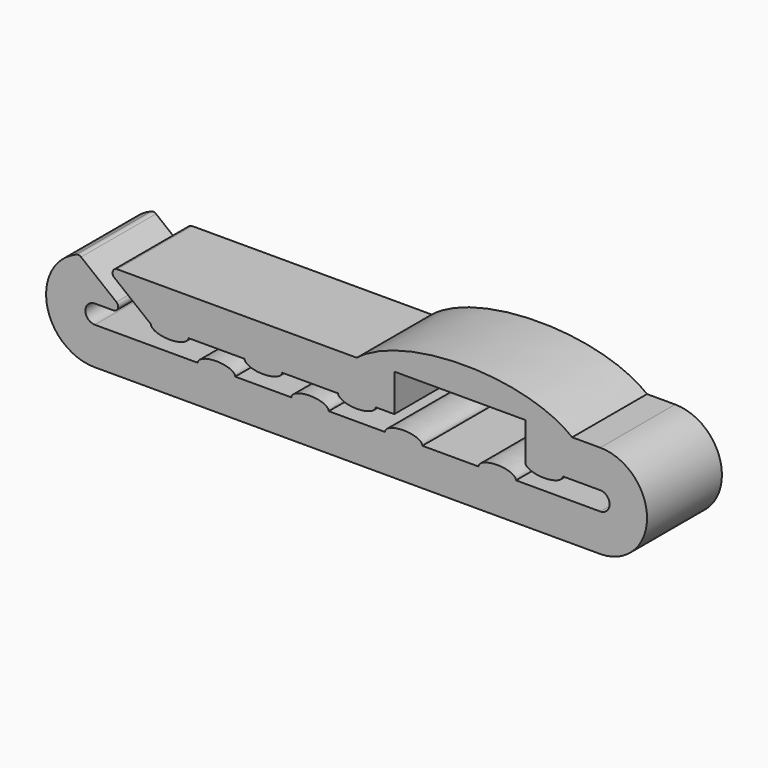
from build123d import *

# Parameters (mm, degrees)
PAD_DEPTH = 5


with BuildPart() as part:
    # Sketch → Pad (new body)
    with BuildSketch(Plane.XZ.offset(-65.300003)):
        with BuildLine():
            Line((62.415147, 3.02512), (62.415147, 5.02512))
            Line((62.415147, 5.02512), (55.415147, 5.02512))
            Line((55.415147, 5.02512), (55.415147, 3.02512))
            Line((55.415147, 3.02512), (54.415147, 3.02512))
            add(Edge.make_bspline(
                [(52.415147, 3.02512), (52.415147, 2.62512), (53.415147, 2.62512), (54.415147, 2.62512), (54.415147, 3.02512)],
                knots=[0, 0, 0, 1.570796, 1.570796, 3.141593, 3.141593, 3.141593], degree=2, weights=[1, 0.707107, 1, 0.707107, 1]))
            Line((52.415147, 3.02512), (49.415147, 3.02512))
            add(Edge.make_bspline(
                [(47.415156, 3.02512), (47.417952, 2.625118), (48.417947, 2.625118), (49.417943, 2.625118), (49.415147, 3.02512)],
                knots=[0.003328, 0.003328, 0.003328, 1.574124, 1.574124, 3.144921, 3.144921, 3.144921], degree=2, weights=[1, 0.707107, 1, 0.707107, 1]))
            Line((47.415156, 3.02512), (44.415156, 3.02512))
            add(Edge.make_bspline(
                [(42.415165, 3.02512), (42.417868, 2.625118), (43.417863, 2.625118), (44.417859, 2.625118), (44.415156, 3.02512)],
                knots=[0.003218, 0.003218, 0.003218, 1.574014, 1.574014, 3.14481, 3.14481, 3.14481], degree=2, weights=[1, 0.707107, 1, 0.707107, 1]))
            Line((42.415165, 3.02512), (40.460414, 4.579441))
            ThreePointArc((40.460414, 4.579441), (40.379979, 4.857522), (40.616008, 5.02512))
            Line((40.616008, 5.02512), (53.415147, 5.02512))
            add(Edge.make_bspline(
                [(64.915147, 5.02512), (59.165147, 9.713985), (53.415147, 5.02512)],
                knots=[0.501593, 0.501593, 0.501593, 2.64, 2.64, 2.64], degree=2, weights=[1, 0.480823, 1]))
            Line((64.915147, 5.02512), (66.415147, 5.02512))
            ThreePointArc((66.415147, 5.02512), (68.915147, 2.52512), (66.415147, 0.02512))
            Line((66.415147, 0.02512), (39.399212, 0.02512))
            ThreePointArc((39.399212, 0.02512), (36.86205, 2.118516), (38.435477, 5.007084))
            ThreePointArc((38.435477, 5.007084), (38.564785, 5.022504), (38.684305, 4.970799))
            Line((38.684305, 4.970799), (40.570741, 3.470799))
            ThreePointArc((40.570741, 3.470799), (40.651176, 3.192718), (40.415147, 3.02512))
            Line((40.415147, 3.02512), (39.415147, 3.02512))
            ThreePointArc((39.415147, 3.02512), (38.915147, 2.52512), (39.415147, 2.02512))
            Line((39.415147, 2.02512), (41.784904, 2.02512))
            Line((41.784904, 2.02512), (44.915147, 2.02512))
            add(Edge.make_bspline(
                [(46.915147, 2.02512), (46.915147, 2.42512), (45.915147, 2.42512), (44.915147, 2.42512), (44.915147, 2.02512)],
                knots=[0, 0, 0, 1.570796, 1.570796, 3.141593, 3.141593, 3.141593], degree=2, weights=[1, 0.707107, 1, 0.707107, 1]))
            Line((46.915147, 2.02512), (49.915147, 2.02512))
            add(Edge.make_bspline(
                [(51.915147, 2.02512), (51.915147, 2.42512), (50.915147, 2.42512), (49.915147, 2.42512), (49.915147, 2.02512)],
                knots=[0, 0, 0, 1.570796, 1.570796, 3.141593, 3.141593, 3.141593], degree=2, weights=[1, 0.707107, 1, 0.707107, 1]))
            Line((51.915147, 2.02512), (54.915147, 2.02512))
            add(Edge.make_bspline(
                [(56.915147, 2.02512), (56.915147, 2.42512), (55.915147, 2.42512), (54.915147, 2.42512), (54.915147, 2.02512)],
                knots=[0, 0, 0, 1.570796, 1.570796, 3.141593, 3.141593, 3.141593], degree=2, weights=[1, 0.707107, 1, 0.707107, 1]))
            Line((56.915147, 2.02512), (59.915147, 2.02512))
            add(Edge.make_bspline(
                [(61.915147, 2.02512), (61.915147, 2.42512), (60.915147, 2.42512), (59.915147, 2.42512), (59.915147, 2.02512)],
                knots=[0, 0, 0, 1.570796, 1.570796, 3.141593, 3.141593, 3.141593], degree=2, weights=[1, 0.707107, 1, 0.707107, 1]))
            Line((61.915147, 2.02512), (66.415147, 2.02512))
            ThreePointArc((66.415147, 2.02512), (66.915147, 2.52512), (66.415147, 3.02512))
            Line((66.415147, 3.02512), (64.415147, 3.02512))
            add(Edge.make_bspline(
                [(62.415147, 3.02512), (62.415147, 2.62512), (63.415147, 2.62512), (64.415147, 2.62512), (64.415147, 3.02512)],
                knots=[0, 0, 0, 1.570796, 1.570796, 3.141593, 3.141593, 3.141593], degree=2, weights=[1, 0.707107, 1, 0.707107, 1]))
        make_face()
    extrude(amount=PAD_DEPTH)


solid = part.part
